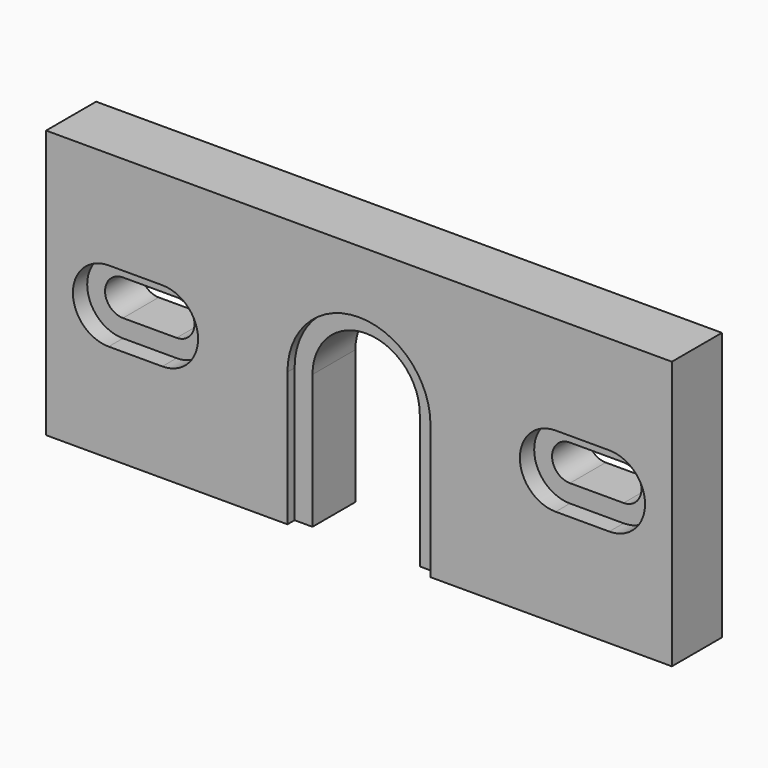
from build123d import *

# Parameters (mm, degrees)
F1_DEPTH = 5
F2_DEPTH = 6
F3_DEPTH = 7
F4_DEPTH = 7


with BuildPart() as f1:
    # F0 (on Front) → F1 (new body)
    with BuildSketch(Plane.XZ):
        with BuildLine():
            Line((7, 11), (13, 11))
            ThreePointArc((13, 11), (17, 15), (13, 19))
            Line((13, 19), (7, 19))
            ThreePointArc((7, 19), (3, 15), (7, 11))
        make_face()
        with BuildLine():
            ThreePointArc((7, 13), (5, 15), (7, 17))
            Line((7, 17), (13, 17))
            ThreePointArc((13, 17), (15, 15), (13, 13))
            Line((13, 13), (7, 13))
        make_face(mode=Mode.SUBTRACT)
    extrude(amount=F1_DEPTH)



with BuildPart() as f1b:
    # F0 (on Front) → F1, piece 2 (new body)
    with BuildSketch(Plane.XZ):
        with BuildLine():
            ThreePointArc((63, 11), (67, 15), (63, 19))
            Line((63, 19), (57, 19))
            ThreePointArc((57, 19), (53, 15), (57, 11))
            Line((57, 11), (63, 11))
        make_face()
        with BuildLine():
            Line((57, 17), (63, 17))
            ThreePointArc((63, 17), (65, 15), (63, 13))
            Line((63, 13), (57, 13))
            ThreePointArc((57, 13), (55, 15), (57, 17))
        make_face(mode=Mode.SUBTRACT)
    extrude(amount=F1_DEPTH)


with BuildPart() as f2:
    # F0 (on Front) → F2 (new body)
    with BuildSketch(Plane.XZ):
        with BuildLine():
            Line((27, 15), (27, 0))
            Line((27, 0), (29, 0))
            Line((29, 0), (29, 15))
            ThreePointArc((29, 15), (35, 21), (41, 15))
            Line((41, 15), (41, 0))
            Line((41, 0), (43, 0))
            Line((43, 0), (43, 15))
            ThreePointArc((43, 15), (35, 23), (27, 15))
        make_face()
    extrude(amount=F2_DEPTH)


with BuildPart() as f1_1:
    add(f1.part)

    add(f1b.part)  # F3 merges F1b

    add(f2.part)  # F3 merges F2
    # F0 (on Front) → F3 (join)
    with BuildSketch(Plane.XZ):
        with BuildLine():
            Line((0, 30), (0, 0))
            Line((0, 0), (27, 0))
            Line((27, 0), (27, 15))
            ThreePointArc((27, 15), (35, 23), (43, 15))
            Line((43, 15), (43, 0))
            Line((43, 0), (70, 0))
            Line((70, 0), (70, 30))
            Line((70, 30), (0, 30))
        make_face()
        with BuildLine():
            ThreePointArc((13, 19), (17, 15), (13, 11))
            Line((13, 11), (7, 11))
            ThreePointArc((7, 11), (3, 15), (7, 19))
            Line((7, 19), (13, 19))
        make_face(mode=Mode.SUBTRACT)
        with BuildLine():
            Line((57, 19), (63, 19))
            ThreePointArc((63, 19), (67, 15), (63, 11))
            Line((63, 11), (57, 11))
            ThreePointArc((57, 11), (53, 15), (57, 19))
        make_face(mode=Mode.SUBTRACT)
    extrude(amount=F3_DEPTH)

    # F0 (on Front) → F4 (join)
    with BuildSketch(Plane.XZ):
        with BuildLine():
            Line((0, 30), (0, 0))
            Line((0, 0), (27, 0))
            Line((27, 0), (27, 15))
            ThreePointArc((27, 15), (35, 23), (43, 15))
            Line((43, 15), (43, 0))
            Line((43, 0), (70, 0))
            Line((70, 0), (70, 30))
            Line((70, 30), (0, 30))
        make_face()
        with BuildLine():
            ThreePointArc((13, 19), (17, 15), (13, 11))
            Line((13, 11), (7, 11))
            ThreePointArc((7, 11), (3, 15), (7, 19))
            Line((7, 19), (13, 19))
        make_face(mode=Mode.SUBTRACT)
        with BuildLine():
            Line((57, 19), (63, 19))
            ThreePointArc((63, 19), (67, 15), (63, 11))
            Line((63, 11), (57, 11))
            ThreePointArc((57, 11), (53, 15), (57, 19))
        make_face(mode=Mode.SUBTRACT)
    extrude(amount=F4_DEPTH)


solid = f1_1.part
